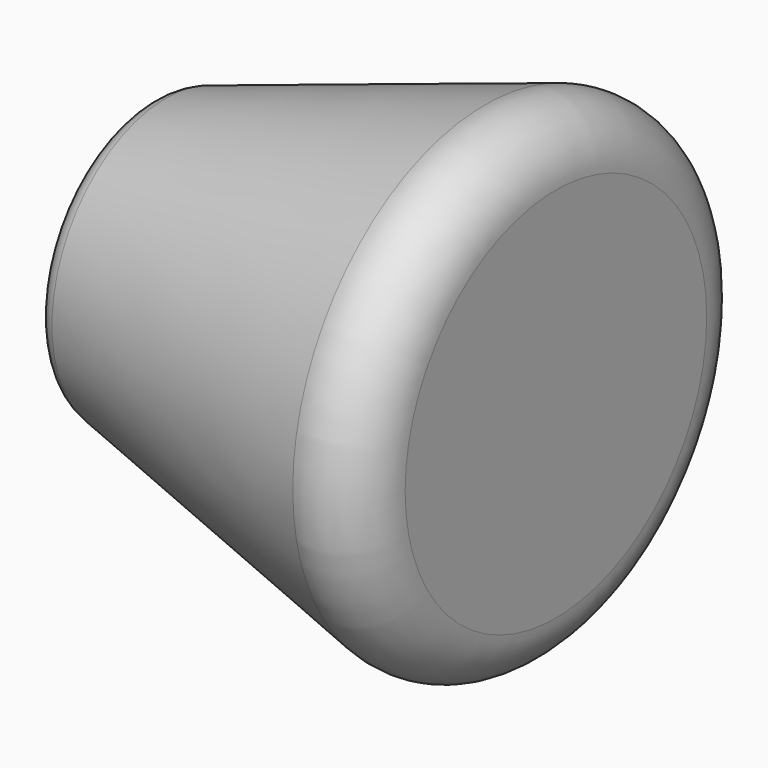
from build123d import *

# Parameters (mm, degrees)
F0_R     = 5
F1_DEPTH = 15
F1_TAPER = -17.1
F2_R     = 2
F3_R     = 1
F4_R     = 1.5
F5_DEPTH = 2.5


with BuildPart() as f1:
    # F0 (on Right) → F1 (new body)
    with BuildSketch(Plane.YZ):
        Circle(F0_R)
    extrude(amount=F1_DEPTH, taper=F1_TAPER)

    # F2
    f2_edges = [f1.edges().sort_by_distance(p)[0] for p in [
        (15, -9.614603, 0),
    ]]
    fillet(f2_edges, radius=F2_R)

    # F3
    f3_edges = [f1.edges().sort_by_distance(p)[0] for p in [
        (0, -5, 0),
    ]]
    fillet(f3_edges, radius=F3_R)

    # F4 (on face) → F5 (cut)
    with BuildSketch(Plane(origin=(0, 0, 0), x_dir=(0, -1, 0), z_dir=(-1, 0, 0))):
        Circle(F4_R)
    extrude(amount=-F5_DEPTH, mode=Mode.SUBTRACT)


solid = f1.part
